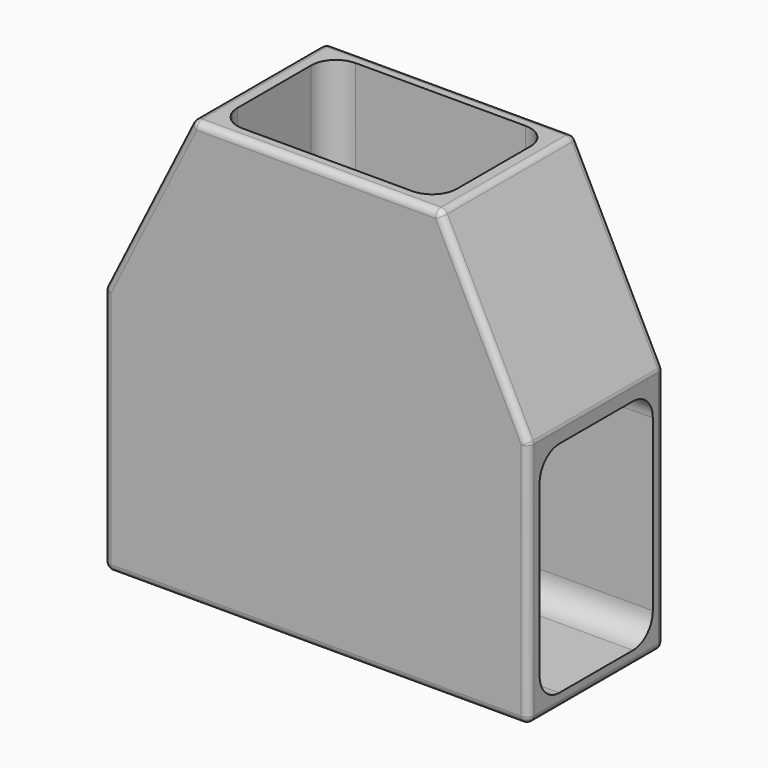
from build123d import *

# Parameters (mm, degrees)
F0_W     = 60
F0_H     = 24
F1_DEPTH = 60
F2_W     = 31
F2_H     = 20
F5_DEPTH = 25
F4_W     = 20
F4_H     = 31
F6_DEPTH = 25
F3_W     = 20
F3_H     = 31
F7_DEPTH = 25
F8_SIZE2 = 25
F8_SIZE  = 12.5
F9_R     = 3.5
F10_R    = 1


with BuildPart() as f1:
    # F0 (on Top) → F1 (new body)
    with BuildSketch(Plane.XY):
        Rectangle(F0_W, F0_H)
    extrude(amount=F1_DEPTH)

    # F2 (on face) → F5 (cut)
    with BuildSketch(Plane.XY.offset(60)):
        Rectangle(F2_W, F2_H)
    extrude(amount=-F5_DEPTH, mode=Mode.SUBTRACT)

    # F4 (on face) → F6 (cut)
    with BuildSketch(Plane(origin=(-30, 0, 0), x_dir=(0, -1, 0), z_dir=(-1, 0, 0))):
        with Locations((0, 17.5)):
            Rectangle(F4_W, F4_H)
    extrude(amount=-F6_DEPTH, mode=Mode.SUBTRACT)

    # F3 (on face) → F7 (cut)
    with BuildSketch(Plane.YZ.offset(30)):
        with Locations((0, 17.5)):
            Rectangle(F3_W, F3_H)
    extrude(amount=-F7_DEPTH, mode=Mode.SUBTRACT)

    # F8
    f8_edges = [f1.edges().sort_by_distance(p)[0] for p in [
        (30, 0, 60),
        (-30, 0, 60),
    ]]
    f8_side = f1.faces().sort_by_distance((0, -11.35378, 60))[0]
    chamfer(f8_edges, length=F8_SIZE, length2=F8_SIZE2, reference=f8_side)

    # F9
    f9_edges = [f1.edges().sort_by_distance(p)[0] for p in [
        (-17.5, 10, 33),
        (-17.5, -10, 33),
        (-17.5, -10, 2),
        (-17.5, 10, 2),
        (15.5, -10, 47.5),
        (15.5, 10, 47.5),
        (-15.5, 10, 47.5),
        (-15.5, -10, 47.5),
        (17.5, -10, 2),
        (17.5, -10, 33),
        (17.5, 10, 33),
        (17.5, 10, 2),
    ]]
    fillet(f9_edges, radius=F9_R)

    # F10
    f10_edges = [f1.edges().sort_by_distance(p)[0] for p in [
        (-30, -12, 17.5),
        (-23.75, -12, 47.5),
        (0, -12, 0),
        (0, -12, 60),
        (30, -12, 17.5),
        (23.75, -12, 47.5),
        (30, 12, 17.5),
        (23.75, 12, 47.5),
        (0, 12, 0),
        (0, 12, 60),
        (-30, 12, 17.5),
        (-23.75, 12, 47.5),
        (30, 0, 0),
        (-30, 0, 0),
        (-17.5, 0, 60),
        (-30, 0, 35),
        (17.5, 0, 60),
        (30, 0, 35),
    ]]
    fillet(f10_edges, radius=F10_R)


solid = f1.part
